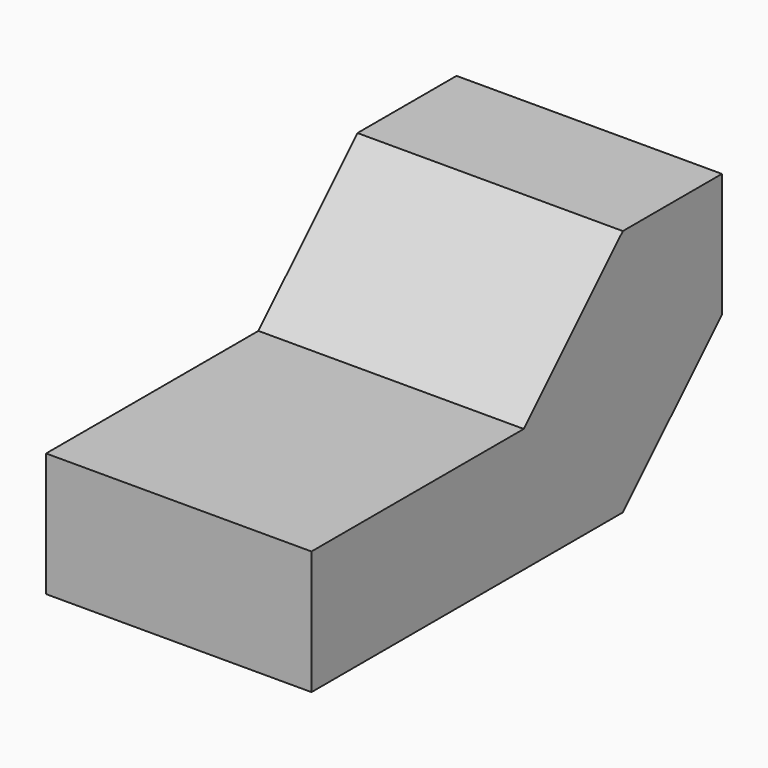
from build123d import *

# Parameters (mm, degrees)
F1_DEPTH = 76.2
F3_DEPTH = 76.2


with BuildPart() as f1:
    # F0 (on Right) → F1 (new body)
    with BuildSketch(Plane.YZ):
        Polygon((0, 35.56), (0, 0), (147.32, 0), (147.32, 71.12), (76.2, 71.12), (76.2, 35.56), align=None)
    extrude(amount=F1_DEPTH)

    # F2 (on Right) → F3 (cut)
    with BuildSketch(Plane.YZ):
        Polygon((147.32, 35.56), (111.76, 0), (147.32, 0), align=None)
        Polygon((76.2, 71.12), (76.2, 35.56), (111.76, 71.12), align=None)
    extrude(amount=F3_DEPTH, mode=Mode.SUBTRACT)


solid = f1.part
